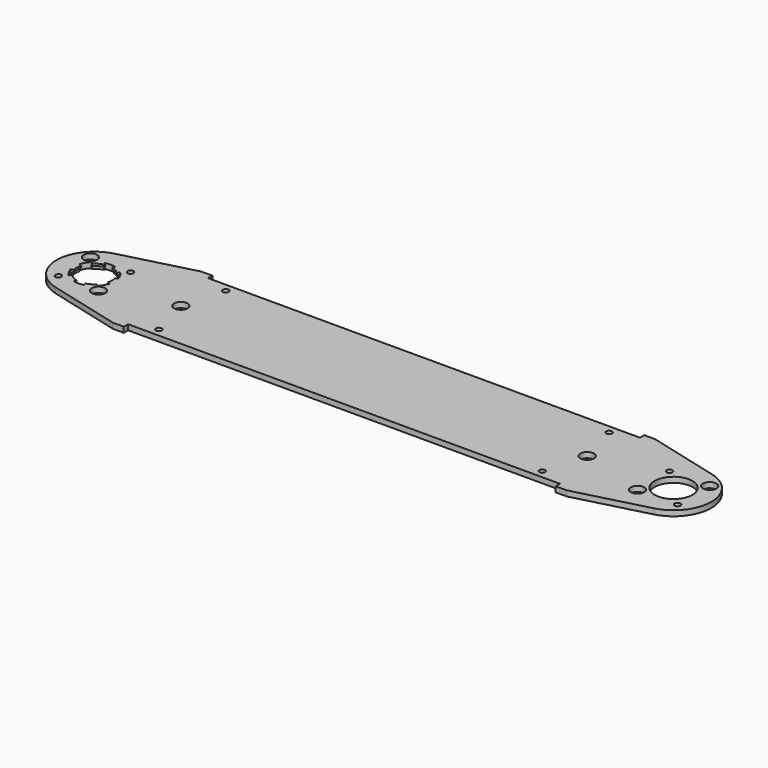
from build123d import *

# Parameters (mm, degrees)
F0_R     = 1.7272
F0_R_2   = 3.96875
F0_R_3   = 10.31875
F0_R_4   = 11.1125
F1_DEPTH = 3.175
F3_DEPTH = 3.175
F4_COUNT = 6
F4_ANGLE = 300
F5_R     = 11.1125
F6_DEPTH = 1.94945


with BuildPart() as f1:
    # F0 (on Top) → F1 (new body)
    with BuildSketch(Plane.XY):
        with BuildLine():
            Line((-303.6125627, 32.54375), (-346.1094200534, 21.5120031198))
            ThreePointArc((-346.1094200534, 21.5120031198), (-362.7501254, 0), (-346.1094200534, -21.5120031198))
            Line((-346.1094200534, -21.5120031198), (-303.6125627, -32.54375))
            Line((-303.6125627, -32.54375), (-297.2625627, -32.54375))
            Line((-297.2625627, -32.54375), (-297.2625627, -29.36875))
            Line((-297.2625627, -29.36875), (-43.2625627, -29.36875))
            Line((-43.2625627, -29.36875), (-43.2625627, -32.54375))
            Line((-43.2625627, -32.54375), (-36.9125627, -32.54375))
            Line((-36.9125627, -32.54375), (5.5842946534, -21.5120031198))
            ThreePointArc((5.5842946534, -21.5120031198), (22.225, 0), (5.5842946534, 21.5120031198))
            Line((5.5842946534, 21.5120031198), (-36.9125627, 32.54375))
            Line((-36.9125627, 32.54375), (-43.2625627, 32.54375))
            Line((-43.2625627, 32.54375), (-43.2625627, 29.36875))
            Line((-43.2625627, 29.36875), (-297.2625627, 29.36875))
            Line((-297.2625627, 29.36875), (-297.2625627, 32.54375))
            Line((-297.2625627, 32.54375), (-303.6125627, 32.54375))
        make_face()
        with Locations((-282.9750627, -24.60625)):
            Circle(F0_R, mode=Mode.SUBTRACT)
        with Locations((-352.3117115589, -11.7865861589)):
            Circle(F0_R, mode=Mode.SUBTRACT)
        with Locations((-328.7385392411, -11.7865861589)):
            Circle(F0_R_2, mode=Mode.SUBTRACT)
        with Locations((-57.5500627, -24.60625)):
            Circle(F0_R, mode=Mode.SUBTRACT)
        with Locations((-11.7865861589, -11.7865861589)):
            Circle(F0_R_2, mode=Mode.SUBTRACT)
        with Locations((11.7865861589, -11.7865861589)):
            Circle(F0_R, mode=Mode.SUBTRACT)
        with Locations((-340.5251254, 0)):
            Circle(F0_R_3, mode=Mode.SUBTRACT)
        with Locations((-289.7251254, 0)):
            Circle(F0_R_2, mode=Mode.SUBTRACT)
        with Locations((-352.3117115589, 11.7865861589)):
            Circle(F0_R_2, mode=Mode.SUBTRACT)
        with Locations((-328.7385392411, 11.7865861589)):
            Circle(F0_R, mode=Mode.SUBTRACT)
        with Locations((-282.9750627, 24.60625)):
            Circle(F0_R, mode=Mode.SUBTRACT)
        with Locations((-50.8, 0)):
            Circle(F0_R_2, mode=Mode.SUBTRACT)
        Circle(F0_R_4, mode=Mode.SUBTRACT)
        with Locations((-11.7865861589, 11.7865861589)):
            Circle(F0_R, mode=Mode.SUBTRACT)
        with Locations((11.7865861589, 11.7865861589)):
            Circle(F0_R_2, mode=Mode.SUBTRACT)
        with Locations((-57.5500627, 24.60625)):
            Circle(F0_R, mode=Mode.SUBTRACT)
    extrude(amount=F1_DEPTH)

    # F2 (on face) → F3 (cut, through all)
    with BuildSketch(Plane(origin=(0, 0, 0), x_dir=(1, 0, 0), z_dir=(0, 0, -1))):
        with BuildLine():
            ThreePointArc((-347.8215834984, -7.2964580984), (-349.4614250353, -5.159375), (-350.49227252, -2.6706890217))
            Line((-350.49227252, -2.6706890217), (-352.0256797693, -3.0815642558))
            ThreePointArc((-352.0256797693, -3.0815642558), (-350.8362403638, -5.953125), (-348.9441155135, -8.4189901135))
            Line((-348.9441155135, -8.4189901135), (-347.8215834984, -7.2964580984))
        make_face()
    f3 = extrude(amount=-F3_DEPTH, mode=Mode.SUBTRACT)

    # F4: F3 ×6 about axis
    f4_axis = Axis((-340.5251254, 0, 0), (0, 0, -1))
    for i in range(1, F4_COUNT):
        add(f3.rotate(f4_axis, i * F4_ANGLE / (F4_COUNT - 1)), mode=Mode.SUBTRACT)

    # F5 (on face) → F6 (cut)
    with BuildSketch(Plane(origin=(0, 0, 0), x_dir=(1, 0, 0), z_dir=(0, 0, -1))):
        with Locations((-340.5251254, 0)):
            Circle(F5_R)
    extrude(amount=-F6_DEPTH, mode=Mode.SUBTRACT)


solid = f1.part
